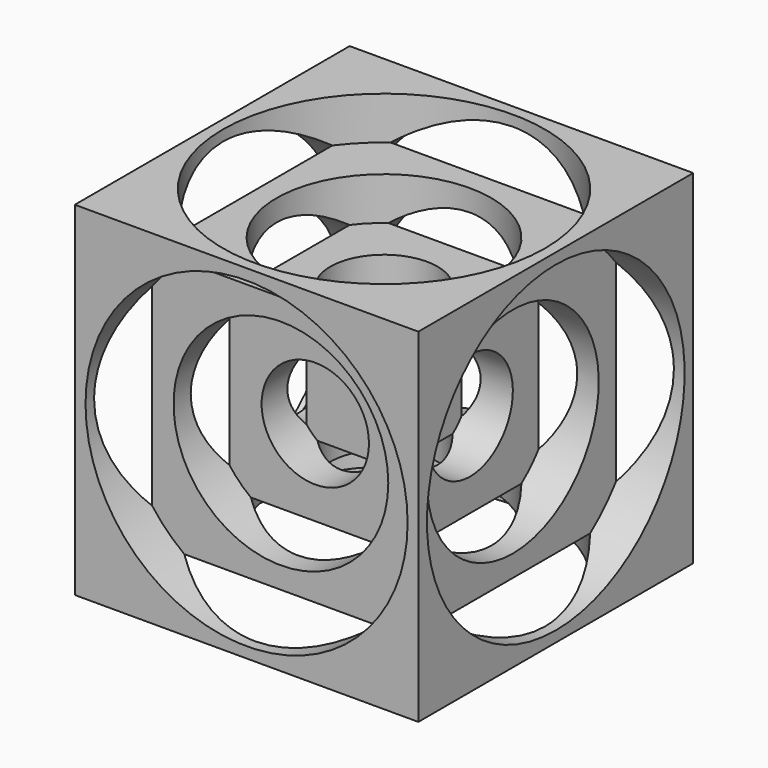
from build123d import *

# Parameters (mm, degrees)
SKETCH_W              = 200
SKETCH_H              = 200
PAD_DEPTH             = 100
SKETCH001_R           = 31.25
POCKET_DEPTH          = 75
SKETCH002_R           = 62.5
POCKET001_DEPTH       = 50
SKETCH003_R           = 93.75
POCKET002_DEPTH       = 25
POLARPATTERN_COUNT    = 4
POLARPATTERN001_COUNT = 2
POLARPATTERN001_ANGLE = 90
POLARPATTERN002_COUNT = 2
POLARPATTERN002_ANGLE = 90


with BuildPart() as part:
    # Sketch → Pad (new body, symmetric)
    with BuildSketch(Plane.XY):
        Rectangle(SKETCH_W, SKETCH_H)
    extrude(amount=PAD_DEPTH, both=True)

    # Sketch001 (on Face6 of Pad) → Pocket (cut)
    with BuildSketch(Plane.XY.offset(100)):
        Circle(SKETCH001_R)
    pocket = extrude(amount=-POCKET_DEPTH, mode=Mode.SUBTRACT)

    # Sketch002 (on Face5 of Pocket) → Pocket001 (cut)
    with BuildSketch(Plane.XY.offset(100)):
        Circle(SKETCH002_R)
    pocket001 = extrude(amount=-POCKET001_DEPTH, mode=Mode.SUBTRACT)

    # Sketch003 (on Face5 of Pocket001) → Pocket002 (cut)
    with BuildSketch(Plane.XY.offset(100)):
        Circle(SKETCH003_R)
    pocket002 = extrude(amount=-POCKET002_DEPTH, mode=Mode.SUBTRACT)

    # PolarPattern: Pocket002, Pocket, Pocket001 ×4 about axis
    polarpattern_axis = Axis((0, 0, 0), (1, 0, 0))
    for i in range(1, POLARPATTERN_COUNT):
        add(pocket002.rotate(polarpattern_axis, i * 360 / POLARPATTERN_COUNT), mode=Mode.SUBTRACT)
        add(pocket.rotate(polarpattern_axis, i * 360 / POLARPATTERN_COUNT), mode=Mode.SUBTRACT)
        add(pocket001.rotate(polarpattern_axis, i * 360 / POLARPATTERN_COUNT), mode=Mode.SUBTRACT)

    # PolarPattern001: Pocket002, Pocket001, Pocket ×2 about axis
    polarpattern001_axis = Axis((0, 0, 0), (0, 1, 0))
    for i in range(1, POLARPATTERN001_COUNT):
        add(pocket002.rotate(polarpattern001_axis, i * POLARPATTERN001_ANGLE / (POLARPATTERN001_COUNT - 1)), mode=Mode.SUBTRACT)
        add(pocket001.rotate(polarpattern001_axis, i * POLARPATTERN001_ANGLE / (POLARPATTERN001_COUNT - 1)), mode=Mode.SUBTRACT)
        add(pocket.rotate(polarpattern001_axis, i * POLARPATTERN001_ANGLE / (POLARPATTERN001_COUNT - 1)), mode=Mode.SUBTRACT)

    # PolarPattern002: Pocket002, Pocket001, Pocket ×2 about axis
    polarpattern002_axis = Axis((0, 0, 0), (0, -1, 0))
    for i in range(1, POLARPATTERN002_COUNT):
        add(pocket002.rotate(polarpattern002_axis, i * POLARPATTERN002_ANGLE / (POLARPATTERN002_COUNT - 1)), mode=Mode.SUBTRACT)
        add(pocket001.rotate(polarpattern002_axis, i * POLARPATTERN002_ANGLE / (POLARPATTERN002_COUNT - 1)), mode=Mode.SUBTRACT)
        add(pocket.rotate(polarpattern002_axis, i * POLARPATTERN002_ANGLE / (POLARPATTERN002_COUNT - 1)), mode=Mode.SUBTRACT)


solid = part.part
